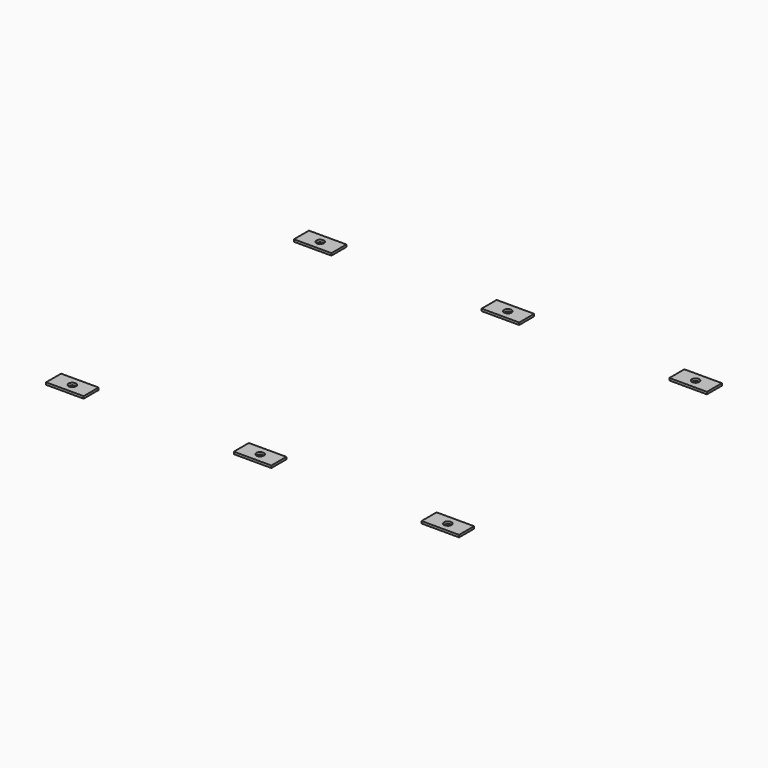
from build123d import *

# Parameters (mm, degrees)
F0_W     = 20
F0_H     = 10
F0_R     = 2
F1_DEPTH = 1.2


with BuildPart() as f1:
    # F0 (on Top) → F1 (new body)
    with BuildSketch(Plane.XY):
        with Locations((-109.068104, 82.5)):
            Rectangle(F0_W, F0_H)
        with Locations((-109.068104, 82.5)):
            Circle(F0_R, mode=Mode.SUBTRACT)
        with Locations((90.931896, 82.5)):
            Rectangle(F0_W, F0_H)
        with Locations((90.931896, 82.5)):
            Circle(F0_R, mode=Mode.SUBTRACT)
        with Locations((-9.068104, 82.5)):
            Rectangle(F0_W, F0_H)
        with Locations((-9.068104, 82.5)):
            Circle(F0_R, mode=Mode.SUBTRACT)
        with Locations((-109.068104, -82.5)):
            Rectangle(F0_W, F0_H)
        with Locations((-109.068104, -82.5)):
            Circle(F0_R, mode=Mode.SUBTRACT)
        with Locations((-9.068104, -82.5)):
            Rectangle(F0_W, F0_H)
        with Locations((-9.068104, -82.5)):
            Circle(F0_R, mode=Mode.SUBTRACT)
        with Locations((90.931896, -82.5)):
            Rectangle(F0_W, F0_H)
        with Locations((90.931896, -82.5)):
            Circle(F0_R, mode=Mode.SUBTRACT)
    extrude(amount=F1_DEPTH)


solid = f1.part
